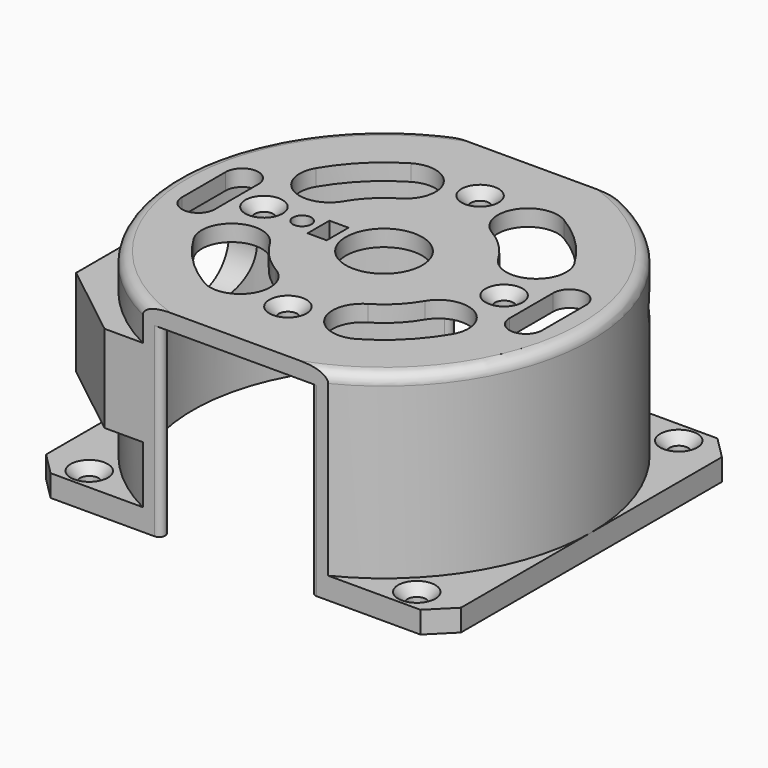
from build123d import *

# Parameters (mm, degrees)
SKETCH_W        = 76
SKETCH_H        = 76
SKETCH_R        = 35
SKETCH_R_2      = 1.7
PAD_DEPTH       = 34
SKETCH001_R     = 60
SKETCH001_R_2   = 38
POCKET_DEPTH    = 30
SKETCH002_R     = 38
PAD001_DEPTH    = 3
SKETCH003_W     = 100
SKETCH003_H     = 100
SKETCH003_W_2   = 80
SKETCH003_H_2   = 68
POCKET001_DEPTH = 37.001
SKETCH004_W     = 68
SKETCH004_H     = 16
PAD002_DEPTH    = 22
POCKET002_DEPTH = 25
POCKET003_DEPTH = 20
SKETCH030_R     = 35
POCKET004_DEPTH = 18
SKETCH031_R     = 1.7
POCKET005_DEPTH = 30
SKETCH022_R     = 1.7
SKETCH022_R_2   = 7
SKETCH022_W     = 3.5
SKETCH022_H     = 5
POCKET006_DEPTH = 5
SKETCH032_W     = 220
SKETCH032_H     = 220
POCKET007_DEPTH = 37.001
POCKET008_DEPTH = 20
FILLET_R        = 1.1
FILLET001_R     = 1.1
FILLET002_R     = 1.1
FILLET003_R     = 1.1
FILLET004_R     = 2
FILLET005_R     = 2
CHAMFER_SIZE    = 1.7
CHAMFER001_SIZE = 1.7
CHAMFER002_SIZE = 1.7
CHAMFER003_SIZE = 1.7
CHAMFER004_SIZE = 1.7
CHAMFER005_SIZE = 1.7
CHAMFER006_SIZE = 1.7
CHAMFER007_SIZE = 1.7


with BuildPart() as part:
    # Sketch → Pad (new body)
    with BuildSketch(Plane.XY):
        Rectangle(SKETCH_W, SKETCH_H)
        Circle(SKETCH_R, mode=Mode.SUBTRACT)
        with Locations((-30, 30)):
            Circle(SKETCH_R_2, mode=Mode.SUBTRACT)
        with Locations((30, 30)):
            Circle(SKETCH_R_2, mode=Mode.SUBTRACT)
        with Locations((30, -30)):
            Circle(SKETCH_R_2, mode=Mode.SUBTRACT)
        with Locations((-30, -30)):
            Circle(SKETCH_R_2, mode=Mode.SUBTRACT)
    extrude(amount=PAD_DEPTH)

    # Sketch001 → Pocket (cut)
    with BuildSketch(Plane.XY.offset(34)):
        Circle(SKETCH001_R)
        Circle(SKETCH001_R_2, mode=Mode.SUBTRACT)
    extrude(amount=-POCKET_DEPTH, mode=Mode.SUBTRACT)

    # Sketch002 → Pad001 (new body)
    with BuildSketch(Plane.XY.offset(34)):
        Circle(SKETCH002_R)
    extrude(amount=PAD001_DEPTH)

    # Sketch003 → Pocket001 (cut, through all)
    with BuildSketch(Plane.XY.offset(37)):
        Rectangle(SKETCH003_W, SKETCH003_H)
        Rectangle(SKETCH003_W_2, SKETCH003_H_2, mode=Mode.SUBTRACT)
    extrude(amount=-POCKET001_DEPTH, mode=Mode.SUBTRACT)

    # Sketch004 → Pad002 (new body)
    with BuildSketch(Plane(origin=(-38, 0, 0), x_dir=(0, -1, 0), z_dir=(-1, 0, 0))):
        with Locations((0, 22.5)):
            Rectangle(SKETCH004_W, SKETCH004_H)
    extrude(amount=-PAD002_DEPTH)

    # Sketch005 → Pocket002 (cut)
    with BuildSketch(Plane(origin=(0, 0, 14.5), x_dir=(1, 0, 0), z_dir=(0, 0, -1))):
        Polygon((-38, 23), (-38, -23), (-24, -34), (-55, -34), (-55, 34), (-24, 34), align=None)
    extrude(amount=-POCKET002_DEPTH, mode=Mode.SUBTRACT)

    # Sketch029 → Pocket003 (cut)
    with BuildSketch(Plane.YZ.offset(-16)):
        Polygon((-15.883419, 19.7), (-14.266838, 22.5), (-15.883419, 25.3), (-19.116581, 25.3), (-20.733162, 22.5), (-19.116581, 19.7), align=None)
        Polygon((14.266838, 22.5), (15.883419, 19.7), (19.116581, 19.7), (20.733162, 22.5), (19.116581, 25.3), (15.883419, 25.3), align=None)
    extrude(amount=-POCKET003_DEPTH, mode=Mode.SUBTRACT)

    # Sketch030 → Pocket004 (cut)
    with BuildSketch(Plane(origin=(0, 0, 14.5), x_dir=(1, 0, 0), z_dir=(0, 0, -1))):
        Circle(SKETCH030_R)
    extrude(amount=-POCKET004_DEPTH, mode=Mode.SUBTRACT)

    # Sketch031 → Pocket005 (cut)
    with BuildSketch(Plane(origin=(-38, 0, 0), x_dir=(0, -1, 0), z_dir=(-1, 0, 0))):
        with Locations((-17.5, 22.5)):
            Circle(SKETCH031_R)
        with Locations((17.5, 22.5)):
            Circle(SKETCH031_R)
        with BuildLine():
            ThreePointArc((-5, 29.5), (-12, 22.5), (-5, 15.5))
            Line((-5, 15.5), (5, 15.5))
            ThreePointArc((5, 15.5), (12, 22.5), (5, 29.5))
            Line((-5, 29.5), (5, 29.5))
        make_face()
    extrude(amount=-POCKET005_DEPTH, mode=Mode.SUBTRACT)

    # Sketch022 → Pocket006 (cut)
    with BuildSketch(Plane.XY.offset(37)):
        with Locations((0, 22)):
            Circle(SKETCH022_R)
        with Locations((0, -22)):
            Circle(SKETCH022_R)
        with Locations((-22, 0)):
            Circle(SKETCH022_R)
        with Locations((22, 0)):
            Circle(SKETCH022_R)
        Circle(SKETCH022_R_2)
        with Locations((-15, 0)):
            Circle(SKETCH022_R)
        with BuildLine():
            ThreePointArc((-23.660997, 14.014536), (-21.731705, 6.47943), (-14.196598, 8.408722))
            ThreePointArc((-8.408722, 14.196598), (-11.667262, 11.667262), (-14.196598, 8.408722))
            ThreePointArc((-8.408722, 14.196598), (-6.47943, 21.731705), (-14.014536, 23.660997))
            ThreePointArc((-14.014536, 23.660997), (-19.445436, 19.445436), (-23.660997, 14.014536))
        make_face()
        with BuildLine():
            ThreePointArc((8.408722, -14.196598), (11.667262, -11.667262), (14.196598, -8.408722))
            ThreePointArc((23.660997, -14.014536), (21.731705, -6.47943), (14.196598, -8.408722))
            ThreePointArc((14.014536, -23.660997), (19.445436, -19.445436), (23.660997, -14.014536))
            ThreePointArc((8.408722, -14.196598), (6.47943, -21.731705), (14.014536, -23.660997))
        make_face()
        with BuildLine():
            ThreePointArc((23.660997, 14.014536), (19.445436, 19.445436), (14.014536, 23.660997))
            ThreePointArc((14.014536, 23.660997), (6.47943, 21.731705), (8.408722, 14.196598))
            ThreePointArc((14.196598, 8.408722), (11.667262, 11.667262), (8.408722, 14.196598))
            ThreePointArc((14.196598, 8.408722), (21.731705, 6.47943), (23.660997, 14.014536))
        make_face()
        with BuildLine():
            ThreePointArc((-14.014536, -23.660997), (-6.47943, -21.731705), (-8.408722, -14.196598))
            ThreePointArc((-14.196598, -8.408722), (-11.667262, -11.667262), (-8.408722, -14.196598))
            ThreePointArc((-14.196598, -8.408722), (-21.731705, -6.47943), (-23.660997, -14.014536))
            ThreePointArc((-23.660997, -14.014536), (-19.445436, -19.445436), (-14.014536, -23.660997))
        make_face()
        with Locations((-10.25, 0)):
            Rectangle(SKETCH022_W, SKETCH022_H)
        with BuildLine():
            ThreePointArc((-27, 5), (-30, 8), (-33, 5))
            Line((-33, 5), (-33, -5))
            ThreePointArc((-33, -5), (-30, -8), (-27, -5))
            Line((-27, 5), (-27, -5))
        make_face()
        with BuildLine():
            ThreePointArc((33, 5), (30, 8), (27, 5))
            Line((27, 5), (27, -5))
            ThreePointArc((27, -5), (30, -8), (33, -5))
            Line((33, 5), (33, -5))
        make_face()
    extrude(amount=-POCKET006_DEPTH, mode=Mode.SUBTRACT)

    # Sketch032 → Pocket007 (cut, through all)
    with BuildSketch(Plane.XY.offset(37)):
        Rectangle(SKETCH032_W, SKETCH032_H)
        Polygon((-67.882251, 0), (0, 67.882251), (67.882251, 0), (0, -67.882251), align=None, mode=Mode.SUBTRACT)
    extrude(amount=-POCKET007_DEPTH, mode=Mode.SUBTRACT)

    # Sketch033 → Pocket008 (cut)
    with BuildSketch(Plane(origin=(33.941125, 33.941125, 0), x_dir=(-0.707107, 0.707107, 0), z_dir=(0.707107, 0.707107, 0))):
        with BuildLine():
            ThreePointArc((-4.5, 32), (-7.5, 29), (-4.5, 26))
            Line((-4.5, 26), (4.5, 26))
            ThreePointArc((4.5, 26), (7.5, 29), (4.5, 32))
            Line((-4.5, 32), (4.5, 32))
        make_face()
    extrude(amount=-POCKET008_DEPTH, mode=Mode.SUBTRACT)

    # Fillet
    fillet_edges = [part.edges().sort_by_distance(p)[0] for p in [
        (8.306624, 34, 23.5),
    ]]
    fillet(fillet_edges, radius=FILLET_R)

    # Fillet001
    fillet001_edges = [part.edges().sort_by_distance(p)[0] for p in [
        (-8.306624, 34, 23.5),
    ]]
    fillet(fillet001_edges, radius=FILLET001_R)

    # Fillet002
    fillet002_edges = [part.edges().sort_by_distance(p)[0] for p in [
        (-8.306624, -34, 7.25),
    ]]
    fillet(fillet002_edges, radius=FILLET002_R)

    # Fillet003
    fillet003_edges = [part.edges().sort_by_distance(p)[0] for p in [
        (8.306624, -34, 7.25),
    ]]
    fillet(fillet003_edges, radius=FILLET003_R)

    # Fillet004
    fillet004_edges = [part.edges().sort_by_distance(p)[0] for p in [
        (-32.317808, -19.98898, 37),
    ]]
    fillet(fillet004_edges, radius=FILLET004_R)

    # Fillet005
    fillet005_edges = [part.edges().sort_by_distance(p)[0] for p in [
        (32.317808, 19.98898, 37),
    ]]
    fillet(fillet005_edges, radius=FILLET005_R)

    # Chamfer
    chamfer_edges = [part.edges().sort_by_distance(p)[0] for p in [
        (-31.7, 30, 4),
    ]]
    chamfer(chamfer_edges, length=CHAMFER_SIZE)

    # Chamfer001
    chamfer001_edges = [part.edges().sort_by_distance(p)[0] for p in [
        (-31.7, -30, 4),
    ]]
    chamfer(chamfer001_edges, length=CHAMFER001_SIZE)

    # Chamfer002
    chamfer002_edges = [part.edges().sort_by_distance(p)[0] for p in [
        (28.3, 30, 4),
    ]]
    chamfer(chamfer002_edges, length=CHAMFER002_SIZE)

    # Chamfer003
    chamfer003_edges = [part.edges().sort_by_distance(p)[0] for p in [
        (28.3, -30, 4),
    ]]
    chamfer(chamfer003_edges, length=CHAMFER003_SIZE)

    # Chamfer004
    chamfer004_edges = [part.edges().sort_by_distance(p)[0] for p in [
        (-23.7, 0, 37),
    ]]
    chamfer(chamfer004_edges, length=CHAMFER004_SIZE)

    # Chamfer005
    chamfer005_edges = [part.edges().sort_by_distance(p)[0] for p in [
        (-1.7, -22, 37),
    ]]
    chamfer(chamfer005_edges, length=CHAMFER005_SIZE)

    # Chamfer006
    chamfer006_edges = [part.edges().sort_by_distance(p)[0] for p in [
        (20.3, 0, 37),
    ]]
    chamfer(chamfer006_edges, length=CHAMFER006_SIZE)

    # Chamfer007
    chamfer007_edges = [part.edges().sort_by_distance(p)[0] for p in [
        (-1.7, 22, 37),
    ]]
    chamfer(chamfer007_edges, length=CHAMFER007_SIZE)


solid = part.part
